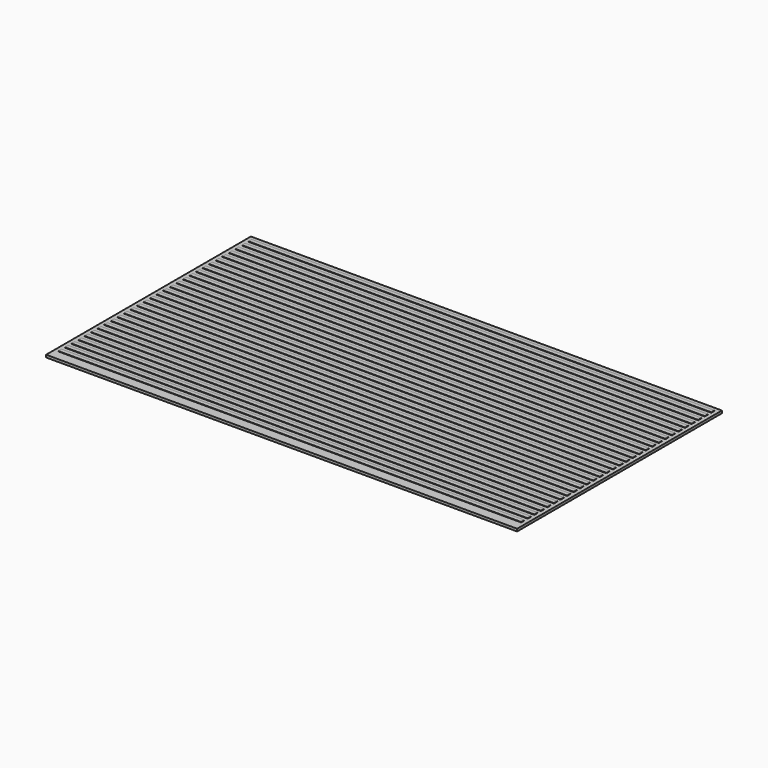
from build123d import *

# Parameters (mm, degrees)
F0_W     = 146.05
F0_H     = 79.375
F1_DEPTH = 0.762
F2_W     = 143.51
F2_H     = 1.27
F3_DEPTH = 0.127


with BuildPart() as f1:
    # F0 (on Top) → F1 (new body)
    with BuildSketch(Plane.XY):
        Rectangle(F0_W, F0_H)
    extrude(amount=F1_DEPTH)

    # F2 (on face) → F3 (join)
    with BuildSketch(Plane.XY.offset(0.762)):
        with Locations((0, 37.7825)):
            Rectangle(F2_W, F2_H)
        with Locations((0, 35.2425)):
            Rectangle(F2_W, F2_H)
        with Locations((0, 32.7025)):
            Rectangle(F2_W, F2_H)
        with Locations((0, 30.1625)):
            Rectangle(F2_W, F2_H)
        with Locations((0, 27.6225)):
            Rectangle(F2_W, F2_H)
        with Locations((0, 25.0825)):
            Rectangle(F2_W, F2_H)
        with Locations((0, 22.5425)):
            Rectangle(F2_W, F2_H)
        with Locations((0, 20.0025)):
            Rectangle(F2_W, F2_H)
        with Locations((0, 17.4625)):
            Rectangle(F2_W, F2_H)
        with Locations((0, 14.9225)):
            Rectangle(F2_W, F2_H)
        with Locations((0, 12.3825)):
            Rectangle(F2_W, F2_H)
        with Locations((0, 9.8425)):
            Rectangle(F2_W, F2_H)
        with Locations((0, 7.3025)):
            Rectangle(F2_W, F2_H)
        with Locations((0, 4.7625)):
            Rectangle(F2_W, F2_H)
        with Locations((0, 2.2225)):
            Rectangle(F2_W, F2_H)
        with Locations((0, -0.3175)):
            Rectangle(F2_W, F2_H)
        with Locations((0, -2.8575)):
            Rectangle(F2_W, F2_H)
        with Locations((0, -5.3975)):
            Rectangle(F2_W, F2_H)
        with Locations((0, -7.9375)):
            Rectangle(F2_W, F2_H)
        with Locations((0, -10.4775)):
            Rectangle(F2_W, F2_H)
        with Locations((0, -13.0175)):
            Rectangle(F2_W, F2_H)
        with Locations((0, -15.5575)):
            Rectangle(F2_W, F2_H)
        with Locations((0, -18.0975)):
            Rectangle(F2_W, F2_H)
        with Locations((0, -20.6375)):
            Rectangle(F2_W, F2_H)
        with Locations((0, -23.1775)):
            Rectangle(F2_W, F2_H)
        with Locations((0, -25.7175)):
            Rectangle(F2_W, F2_H)
        with Locations((0, -28.2575)):
            Rectangle(F2_W, F2_H)
        with Locations((0, -30.7975)):
            Rectangle(F2_W, F2_H)
        with Locations((0, -33.3375)):
            Rectangle(F2_W, F2_H)
        with Locations((0, -35.8775)):
            Rectangle(F2_W, F2_H)
    extrude(amount=F3_DEPTH)


solid = f1.part
